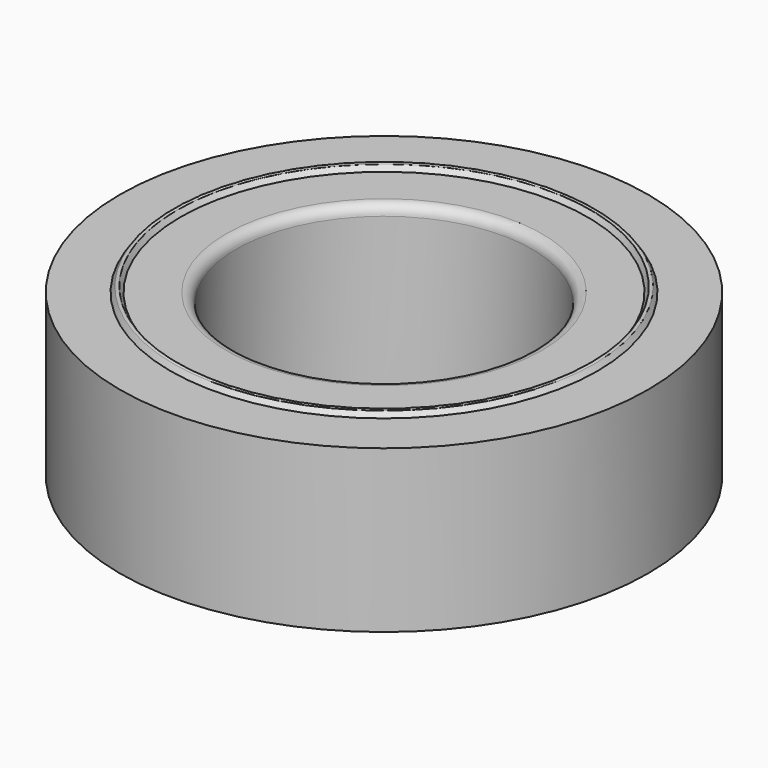
from build123d import *

# Parameters (mm, degrees)
F2_R     = 52.25
F2_R_2   = 29.25
F3_DEPTH = 4


with BuildPart() as f1:
    # F0 (on Front) → F1 (revolve)
    with BuildSketch(Plane.XZ):
        with BuildLine():
            Line((40.25, 28), (31.25, 28))
            ThreePointArc((31.25, 28), (29.835786, 27.414214), (29.25, 26))
            Line((29.25, 26), (29.25, 0))
            Line((29.25, 0), (52.25, 0))
            Line((52.25, 0), (52.25, 28))
            Line((52.25, 28), (44.25, 28))
            Line((44.25, 28), (42.25, 28))
            Line((42.25, 28), (41.58282, 29.00077))
            ThreePointArc((41.58282, 29.00077), (41.25, 29.17889), (40.91718, 29.00077))
            Line((40.91718, 29.00077), (40.25, 28))
        make_face()
    revolve(axis=Axis((0, 0, 14), (0, 0, -1)))

    # F2 (on face) → F3 (join)
    with BuildSketch(Plane(origin=(0, 0, 0), x_dir=(1, 0, 0), z_dir=(0, 0, -1))):
        Circle(F2_R)
        Circle(F2_R_2, mode=Mode.SUBTRACT)
    extrude(amount=F3_DEPTH)


solid = f1.part
